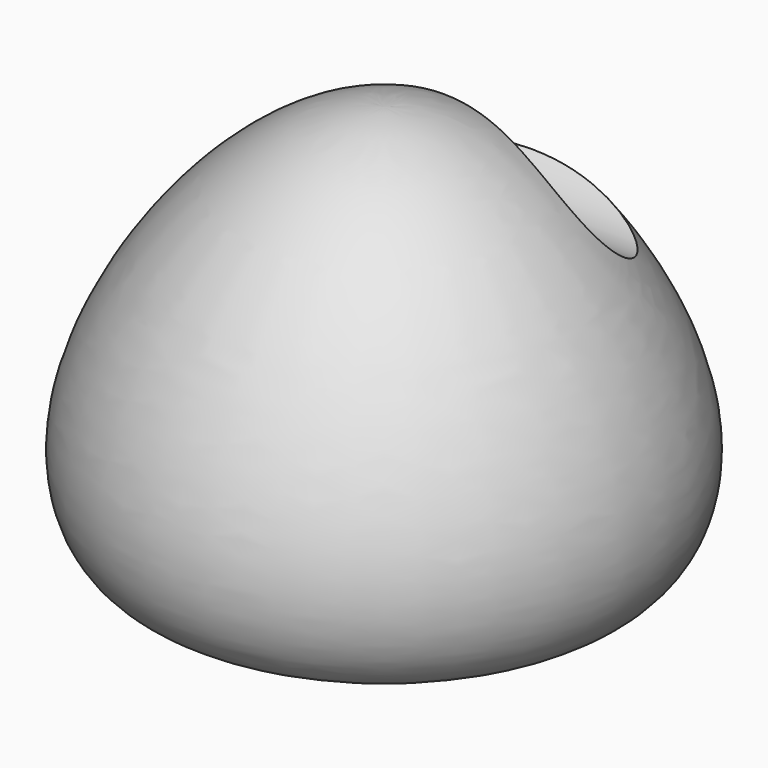
from build123d import *

# Parameters (mm, degrees)
F2_R     = 15.5632429763
F3_DEPTH = 200
F4_DEPTH = 200


with BuildPart() as f1:
    # F0 (on Front) → F1 (revolve)
    with BuildSketch(Plane.XZ):
        with BuildLine():
            add(Edge.make_bspline(
                [(0, 58.2728385925), (25.47276158, 58.3857872618), (68.6055114297, 3.4359015593), (44.6377115845, -39.8227097029), (14.9578071581, -15.477957094), (0, -16.3882691413)],
                knots=[0, 0, 0, 0, 0.2136113367, 0.3448309082, 0.5024340166, 0.5024340166, 0.5024340166, 0.5024340166], degree=3))
            Line((0, 58.2728385925), (0, -16.3882691413))
        make_face()
    revolve(axis=Axis((0, 0, 20.9422847256), (0, 0, -1)))

    # F2 (on Right) → F3 (cut)
    with BuildSketch(Plane.YZ):
        with Locations((29.1533507407, 45.9110625088)):
            Circle(F2_R)
    extrude(amount=-F3_DEPTH, mode=Mode.SUBTRACT)

    # F2 (on Right) → F4 (cut)
    with BuildSketch(Plane.YZ):
        with Locations((29.1533507407, 45.9110625088)):
            Circle(F2_R)
    extrude(amount=F4_DEPTH, mode=Mode.SUBTRACT)


solid = f1.part
